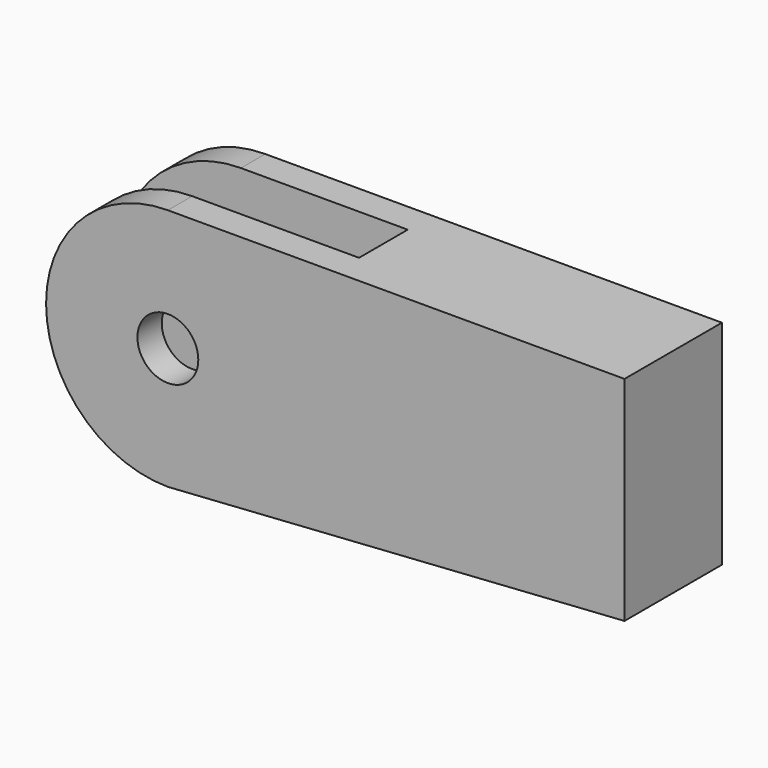
from build123d import *

# Parameters (mm, degrees)
F0_R     = 1
F1_DEPTH = 4
F2_W     = 12
F2_H     = 2
F3_DEPTH = 8.249357


with BuildPart() as f1:
    # F0 (on Front) → F1 (new body)
    with BuildSketch(Plane.XZ):
        with BuildLine():
            Line((15, 8), (0, 8))
            ThreePointArc((0, 8), (-4, 4), (0, 0))
            Line((0, 0), (15, 1))
            Line((15, 1), (15, 8))
        make_face()
        with Locations((0, 4)):
            Circle(F0_R, mode=Mode.SUBTRACT)
    extrude(amount=F1_DEPTH)

    # F2 (on face) → F3 (cut, through all)
    with BuildSketch(Plane(origin=(0, 0, 0), x_dir=(0.997785, 0, 0.066519), z_dir=(0.066519, 0, -0.997785))):
        with Locations((0, 2)):
            Rectangle(F2_W, F2_H)
    extrude(amount=-F3_DEPTH, mode=Mode.SUBTRACT)


solid = f1.part
